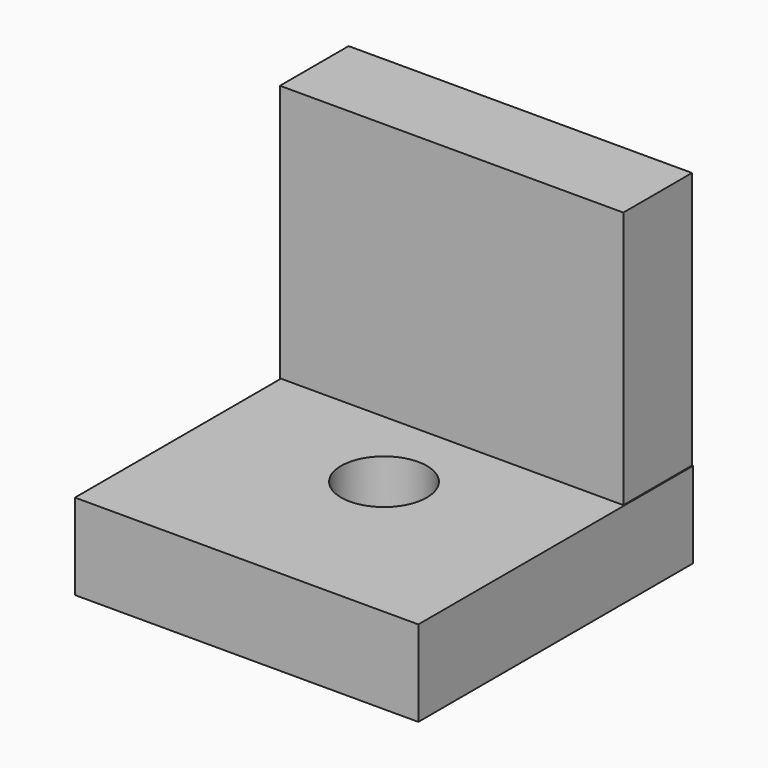
from build123d import *

# Parameters (mm, degrees)
F0_W     = 50.8
F0_H     = 50.8
F0_R     = 6.35
F1_DEPTH = 12.7
F2_W     = 50.8
F2_H     = 50.8
F3_DEPTH = 12.7


with BuildPart() as f1:
    # F0 (on Top) → F1 (new body)
    with BuildSketch(Plane.XY):
        with Locations((-36.931288, -25.4)):
            Rectangle(F0_W, F0_H)
        with Locations((-36.931288, -25.4)):
            Circle(F0_R, mode=Mode.SUBTRACT)
    extrude(amount=F1_DEPTH)

    # F2 (on Front) → F3 (join)
    with BuildSketch(Plane.XZ):
        with Locations((-37.084534, 25.4)):
            Rectangle(F2_W, F2_H)
    extrude(amount=F3_DEPTH)


solid = f1.part
